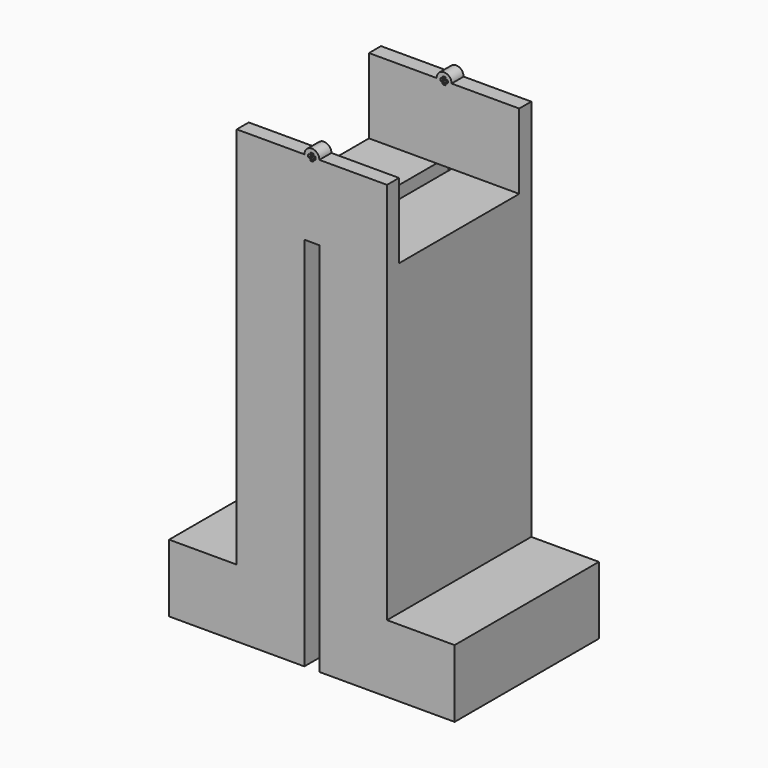
from build123d import *

# Parameters (mm, degrees)
F0_W          = 11.43
F0_H          = 11.43
F1_DEPTH      = 30.48
F3_DEPTH      = 12.7
F3_DEPTH_BACK = 25.4


with BuildPart() as f1:
    # F0 (on Front) → F1 (new body)
    with BuildSketch(Plane.XZ):
        with BuildLine():
            Line((12.7, 38.1), (1.27, 38.1))
            ThreePointArc((1.27, 38.1), (0, 36.83), (-1.27, 38.1))
            Line((-1.27, 38.1), (-12.7, 38.1))
            Line((-12.7, 38.1), (-12.7, -26.67))
            Line((-12.7, -26.67), (-1.27, -26.67))
            Line((-1.27, -26.67), (-1.27, 25.4))
            Line((-1.27, 25.4), (1.27, 25.4))
            Line((1.27, 25.4), (1.27, -26.67))
            Line((1.27, -26.67), (12.7, -26.67))
            Line((12.7, -26.67), (12.7, 38.1))
        make_face()
        with BuildLine():
            ThreePointArc((-1.27, 38.1), (0, 36.83), (1.27, 38.1))
            Line((1.27, 38.1), (0.909717055, 38.1))
            Line((0.909717055, 38.1), (0.909717055, 37.846))
            Line((0.909717055, 37.846), (0.5819871133, 37.846))
            ThreePointArc((0.5819871133, 37.846), (0.4490128061, 37.6509871939), (0.254, 37.5180128867))
            Line((0.254, 37.5180128867), (0.254, 37.3829295754))
            Line((0.254, 37.3829295754), (-0.254, 37.3829295754))
            Line((-0.254, 37.3829295754), (-0.254, 37.5180128867))
            ThreePointArc((-0.254, 37.5180128867), (-0.4490128061, 37.6509871939), (-0.5819871133, 37.846))
            Line((-0.5819871133, 37.846), (-0.909717055, 37.846))
            Line((-0.909717055, 37.846), (-0.909717055, 38.1))
            Line((-0.909717055, 38.1), (-1.27, 38.1))
        make_face()
        with Locations((-6.985, -32.385)):
            Rectangle(F0_W, F0_H)
        with Locations((-18.415, -32.385)):
            Rectangle(F0_W, F0_H)
        with Locations((6.985, -32.385)):
            Rectangle(F0_W, F0_H)
        with Locations((18.415, -32.385)):
            Rectangle(F0_W, F0_H)
        with BuildLine():
            ThreePointArc((-1.27, 38.1), (0, 36.83), (1.27, 38.1))
            Line((1.27, 38.1), (0.909717055, 38.1))
            Line((0.909717055, 38.1), (0.909717055, 37.846))
            Line((0.909717055, 37.846), (0.5819871133, 37.846))
            ThreePointArc((0.5819871133, 37.846), (0.4490128061, 37.6509871939), (0.254, 37.5180128867))
            Line((0.254, 37.5180128867), (0.254, 37.3829295754))
            Line((0.254, 37.3829295754), (-0.254, 37.3829295754))
            Line((-0.254, 37.3829295754), (-0.254, 37.5180128867))
            ThreePointArc((-0.254, 37.5180128867), (-0.4490128061, 37.6509871939), (-0.5819871133, 37.846))
            Line((-0.5819871133, 37.846), (-0.909717055, 37.846))
            Line((-0.909717055, 37.846), (-0.909717055, 38.1))
            Line((-0.909717055, 38.1), (-1.27, 38.1))
        make_face()
        with BuildLine():
            Line((0.909717055, 38.1), (1.27, 38.1))
            ThreePointArc((1.27, 38.1), (0, 39.37), (-1.27, 38.1))
            Line((-1.27, 38.1), (-0.909717055, 38.1))
            Line((-0.909717055, 38.1), (-0.909717055, 38.354))
            Line((-0.909717055, 38.354), (-0.5819871133, 38.354))
            ThreePointArc((-0.5819871133, 38.354), (-0.4490128061, 38.5490128061), (-0.254, 38.6819871133))
            Line((-0.254, 38.6819871133), (-0.254, 38.8170704246))
            Line((-0.254, 38.8170704246), (0.254, 38.8170704246))
            Line((0.254, 38.8170704246), (0.254, 38.6819871133))
            ThreePointArc((0.254, 38.6819871133), (0.4490128061, 38.5490128061), (0.5819871133, 38.354))
            Line((0.5819871133, 38.354), (0.909717055, 38.354))
            Line((0.909717055, 38.354), (0.909717055, 38.1))
        make_face()
        with BuildLine():
            Line((-0.635, 38.1), (-0.909717055, 38.1))
            Line((-0.909717055, 38.1), (-0.909717055, 37.846))
            Line((-0.909717055, 37.846), (-0.5819871133, 37.846))
            ThreePointArc((-0.5819871133, 37.846), (-0.6216055087, 37.9702633763), (-0.635, 38.1))
        make_face()
        with BuildLine():
            Line((-0.909717055, 38.354), (-0.909717055, 38.1))
            Line((-0.909717055, 38.1), (-0.635, 38.1))
            ThreePointArc((-0.635, 38.1), (-0.6216055087, 38.2297366237), (-0.5819871133, 38.354))
            Line((-0.5819871133, 38.354), (-0.909717055, 38.354))
        make_face()
        with BuildLine():
            ThreePointArc((-0.254, 38.6819871133), (-0.4490128061, 38.5490128061), (-0.5819871133, 38.354))
            Line((-0.5819871133, 38.354), (-0.254, 38.354))
            Line((-0.254, 38.354), (-0.254, 38.6819871133))
        make_face()
        with BuildLine():
            Line((0.254, 38.354), (0.5819871133, 38.354))
            ThreePointArc((0.5819871133, 38.354), (0.4490128061, 38.5490128061), (0.254, 38.6819871133))
            Line((0.254, 38.6819871133), (0.254, 38.354))
        make_face()
        with BuildLine():
            Line((0.635, 38.1), (0.909717055, 38.1))
            Line((0.909717055, 38.1), (0.909717055, 38.354))
            Line((0.909717055, 38.354), (0.5819871133, 38.354))
            ThreePointArc((0.5819871133, 38.354), (0.6216055087, 38.2297366237), (0.635, 38.1))
        make_face()
        with BuildLine():
            Line((0.909717055, 37.846), (0.909717055, 38.1))
            Line((0.909717055, 38.1), (0.635, 38.1))
            ThreePointArc((0.635, 38.1), (0.6216055087, 37.9702633763), (0.5819871133, 37.846))
            Line((0.5819871133, 37.846), (0.909717055, 37.846))
        make_face()
        with BuildLine():
            ThreePointArc((0.254, 37.5180128867), (0.4490128061, 37.6509871939), (0.5819871133, 37.846))
            Line((0.5819871133, 37.846), (0.254, 37.846))
            Line((0.254, 37.846), (0.254, 37.5180128867))
        make_face()
        with BuildLine():
            Line((0.254, 37.3829295754), (0.254, 37.5180128867))
            ThreePointArc((0.254, 37.5180128867), (0, 37.465), (-0.254, 37.5180128867))
            Line((-0.254, 37.5180128867), (-0.254, 37.3829295754))
            Line((-0.254, 37.3829295754), (0.254, 37.3829295754))
        make_face()
        with BuildLine():
            ThreePointArc((-0.254, 38.6819871133), (0, 38.735), (0.254, 38.6819871133))
            Line((0.254, 38.6819871133), (0.254, 38.8170704246))
            Line((0.254, 38.8170704246), (-0.254, 38.8170704246))
            Line((-0.254, 38.8170704246), (-0.254, 38.6819871133))
        make_face()
        with BuildLine():
            Line((-0.254, 37.846), (-0.5819871133, 37.846))
            ThreePointArc((-0.5819871133, 37.846), (-0.4490128061, 37.6509871939), (-0.254, 37.5180128867))
            Line((-0.254, 37.5180128867), (-0.254, 37.846))
        make_face()
    extrude(amount=F1_DEPTH)

    # F2 (on face) → F3 (cut, two sides)
    with BuildSketch(Plane.XY.offset(38.1)) as f3_sk:
        Polygon((12.7, -27.94), (12.7, -2.54), (-6.985, -2.54), (-26.67, -2.54), (-26.67, -27.94), align=None)
    extrude(amount=-F3_DEPTH, mode=Mode.SUBTRACT)
    extrude(f3_sk.sketch, amount=F3_DEPTH_BACK, mode=Mode.SUBTRACT)


solid = f1.part
